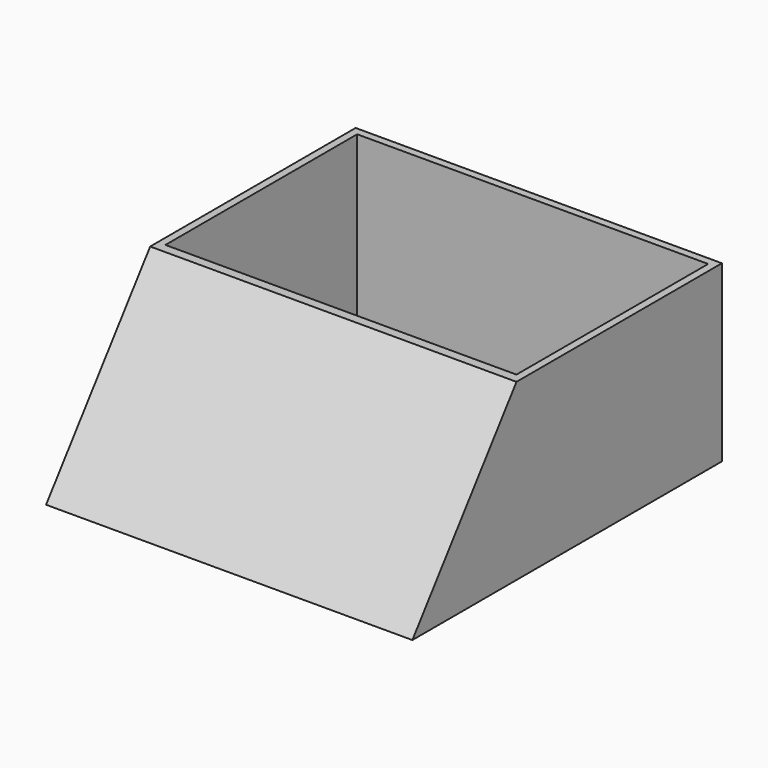
from build123d import *

# Parameters (mm, degrees)
F1_DEPTH = 60
F0_W     = 84.12575
F0_H     = 57.152696
F2_DEPTH = 60
F3_T     = -2.5
F4_W     = 22
F4_H     = 54
F5_DEPTH = 5


with BuildPart() as f1:
    # F0 (on Right) → F1 (new body, symmetric)
    with BuildSketch(Plane.YZ):
        Polygon((-42.062875, -28.576348), (-42.062875, 28.576348), (-84.691621, -28.576348), align=None)
    extrude(amount=F1_DEPTH, both=True)

    # F0 (on Right) → F2 (join, symmetric)
    with BuildSketch(Plane.YZ):
        Rectangle(F0_W, F0_H)
        Polygon((-42.062875, -28.576348), (-42.062875, 28.576348), (-84.691621, -28.576348), align=None)
    extrude(amount=F2_DEPTH, both=True)

    # F3
    f3_openings = [f1.faces().sort_by_distance(p)[0] for p in [
        (0, 0, 28.576348),
    ]]
    offset(amount=F3_T, openings=f3_openings)

    # F4 (on face) → F5 (cut)
    with BuildSketch(Plane(origin=(0, 0, -28.576348), x_dir=(1, 0, 0), z_dir=(0, 0, -1))):
        with Locations((-40, 50)):
            Rectangle(F4_W, F4_H)
        with Locations((40, 50)):
            Rectangle(F4_W, F4_H)
    extrude(amount=-F5_DEPTH, mode=Mode.SUBTRACT)


solid = f1.part
